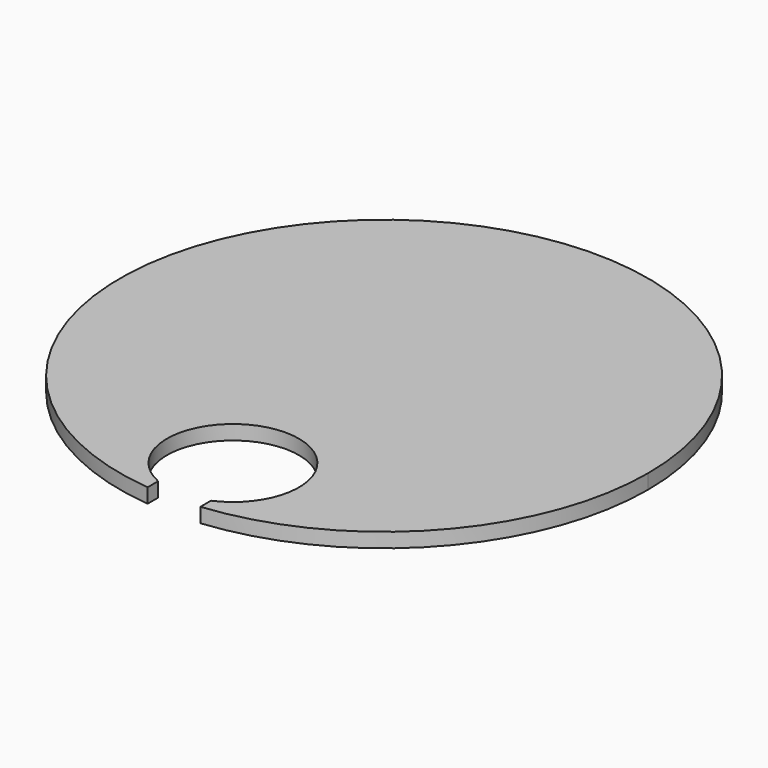
from build123d import *

# Parameters (mm, degrees)
F1_DEPTH = 5.588


with BuildPart() as f1:
    # F0 (on Top) → F1 (new body)
    with BuildSketch(Plane.XY):
        with BuildLine():
            ThreePointArc((10.16, -101.090724), (75.348577, -68.155352), (101.6, 0))
            ThreePointArc((101.6, 0), (-68.155352, 75.348577), (-10.16, -101.090724))
            Line((-10.16, -101.090724), (-10.16, -96.010724))
            ThreePointArc((-10.16, -96.010724), (0, -47.331239), (10.16, -96.010724))
            Line((10.16, -96.010724), (10.16, -101.090724))
        make_face()
    extrude(amount=F1_DEPTH)


solid = f1.part
